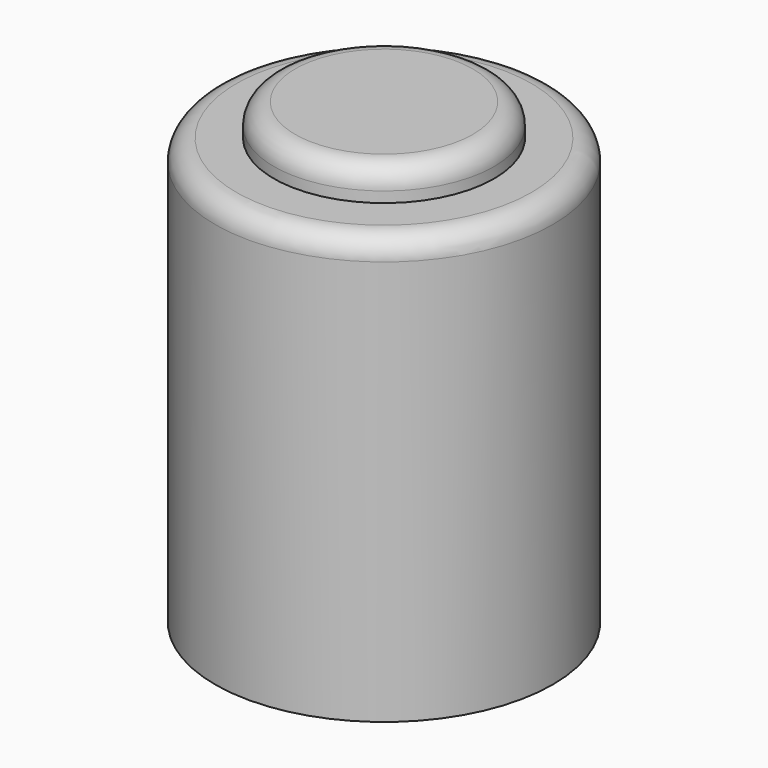
from build123d import *

# Parameters (mm, degrees)
F0_R     = 40.248504
F1_DEPTH = 101.6
F2_R     = 26.250154
F3_DEPTH = 7.62
F4_R     = 5.08
F5_R     = 5.08


with BuildPart() as f1:
    # F0 (on Top) → F1 (new body)
    with BuildSketch(Plane.XY):
        Circle(F0_R)
    extrude(amount=F1_DEPTH)

    # F2 (on face) → F3 (join)
    with BuildSketch(Plane.XY.offset(101.6)):
        Circle(F2_R)
    extrude(amount=F3_DEPTH)

    # F4
    f4_edges = [f1.edges().sort_by_distance(p)[0] for p in [
        (-26.250154, 0, 109.22),
    ]]
    fillet(f4_edges, radius=F4_R)

    # F5
    f5_edges = [f1.edges().sort_by_distance(p)[0] for p in [
        (-40.248504, 0, 101.6),
    ]]
    fillet(f5_edges, radius=F5_R)


solid = f1.part
